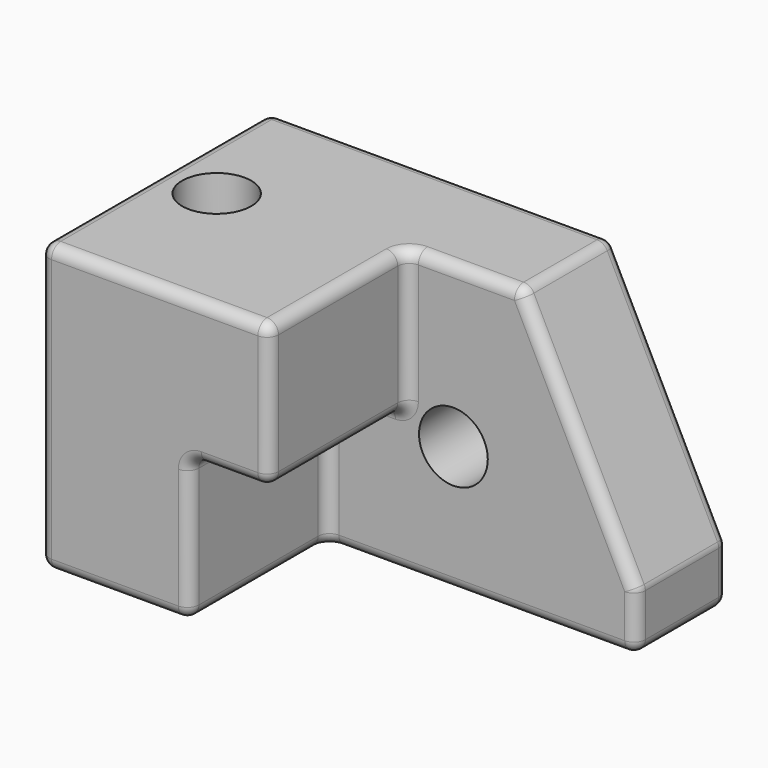
from build123d import *

# Parameters (mm, degrees)
F0_W     = 203.2
F0_H     = 127
F1_DEPTH = 127
F3_DEPTH = 76.2
F4_SIZE2 = 101.6
F4_SIZE  = 50.8
F5_R     = 5.08
F6_R     = 15.24
F7_DEPTH = 50.8
F8_R     = 15.301727391
F9_DEPTH = 127


with BuildPart() as f1:
    # F0 (on Front) → F1 (new body)
    with BuildSketch(Plane.XZ):
        Rectangle(F0_W, F0_H)
    extrude(amount=F1_DEPTH)

    # F2 (on face) → F3 (cut)
    with BuildSketch(Plane.XZ.offset(127)):
        Polygon((101.6, 63.5), (0, 63.5), (0, 0), (-35.2848060429, 0), (-35.2848060429, -63.5), (101.6, -63.5), align=None)
    extrude(amount=-F3_DEPTH, mode=Mode.SUBTRACT)

    # F4
    f4_edges = [f1.edges().sort_by_distance(p)[0] for p in [
        (101.6, -25.4, 63.5),
    ]]
    f4_side = f1.faces().sort_by_distance((-21.771429, -52.614286, 63.5))[0]
    chamfer(f4_edges, length=F4_SIZE, length2=F4_SIZE2, reference=f4_side)

    # F5
    f5_edges = [f1.edges().sort_by_distance(p)[0] for p in [
        (-50.8, -127, 63.5),
        (0, -88.9, 63.5),
        (76.2, -50.8, 12.7),
        (-101.6, -63.5, 63.5),
        (-25.4, 0, 63.5),
        (76.2, 0, 12.7),
        (-68.442403, -127, -63.5),
        (101.6, -25.4, -63.5),
        (50.8, -25.4, 63.5),
        (25.4, -50.8, 63.5),
        (0, -88.9, 0),
        (-35.284806, -88.9, -63.5),
        (-17.642403, -127, 0),
        (33.157597, -50.8, -63.5),
        (101.6, -25.4, -38.1),
        (-101.6, -63.5, -63.5),
        (101.6, 0, -50.8),
        (-17.642403, -50.8, 0),
        (0, -127, 31.75),
        (-35.284806, -127, -31.75),
        (0, 0, -63.5),
        (0, -50.8, 31.75),
        (-35.284806, -50.8, -31.75),
        (-101.6, -127, 0),
        (-101.6, 0, 0),
        (-35.284806, -88.9, 0),
        (101.6, -50.8, -50.8),
    ]]
    fillet(f5_edges, radius=F5_R)

    # F6 (on face) → F7 (cut, through all)
    with BuildSketch(Plane.XZ.offset(50.8)):
        with Locations((20.5951939571, -7.4171987902)):
            Circle(F6_R)
    extrude(amount=-F7_DEPTH, mode=Mode.SUBTRACT)

    # F8 (on face) → F9 (cut, through all)
    with BuildSketch(Plane.XY.offset(63.5)):
        with Locations((-76.8187716603, -60.167491436)):
            Circle(F8_R)
    extrude(amount=-F9_DEPTH, mode=Mode.SUBTRACT)


solid = f1.part
